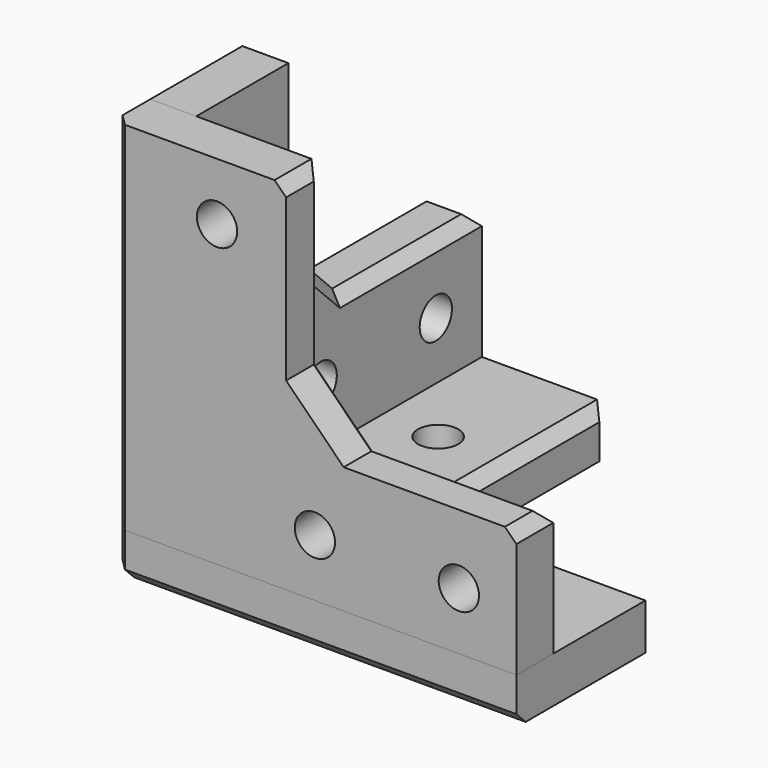
from build123d import *

# Parameters (mm, degrees)
F0_R      = 2.2225
F1_DEPTH  = 5.08
F2_R      = 2.2225
F3_DEPTH  = 5.08
F4_R      = 2.2225
F5_DEPTH  = 5.08
F6_SIZE   = 1.27
F6_2_SIZE = 1.27
F6_3_SIZE = 1.27


with BuildPart() as f1:
    # F0 (on Top) → F1 (new body)
    with BuildSketch(Plane.XY):
        Polygon((0, 44.45), (0, 0), (44.45, 0), (44.45, 19.05), (25.4, 19.05), (19.05, 25.4), (19.05, 44.45), align=None)
        with Locations((11.43, 11.43)):
            Circle(F0_R, mode=Mode.SUBTRACT)
        with Locations((30.48, 11.43)):
            Circle(F0_R, mode=Mode.SUBTRACT)
        with Locations((11.43, 30.48)):
            Circle(F0_R, mode=Mode.SUBTRACT)
    extrude(amount=F1_DEPTH)

    # F6
    f6_edges = [f1.edges().sort_by_distance(p)[0] for p in [
        (19.05, 34.925, 5.08),
        (19.05, 44.45, 2.54),
        (34.925, 19.05, 5.08),
        (22.225, 22.225, 5.08),
        (44.45, 19.05, 2.54),
        (22.225, 0, 0),
        (0, 0, 2.54),
        (0, 22.225, 0),
    ]]
    chamfer(f6_edges, length=F6_SIZE)


with BuildPart() as f3:
    # F2 (on face) → F3 (new body)
    with BuildSketch(Plane.XZ):
        Polygon((0, 44.45), (0, 5.08), (44.45, 5.08), (44.45, 19.05), (25.4, 19.05), (19.05, 25.4), (19.05, 44.45), align=None)
        with Locations((22.225, 11.43)):
            Circle(F2_R, mode=Mode.SUBTRACT)
        with Locations((38.1, 11.43)):
            Circle(F2_R, mode=Mode.SUBTRACT)
        with Locations((11.43, 38.1)):
            Circle(F2_R, mode=Mode.SUBTRACT)
    extrude(amount=-F3_DEPTH)

    # F6#3
    f6_3_edges = [f3.edges().sort_by_distance(p)[0] for p in [
        (19.05, 5.08, 34.925),
        (22.225, 5.08, 22.225),
        (34.925, 5.08, 19.05),
        (44.45, 2.54, 19.05),
        (19.05, 2.54, 44.45),
        (0, 0, 24.765),
    ]]
    chamfer(f6_3_edges, length=F6_3_SIZE)


with BuildPart() as f5:
    # F4 (on face) → F5 (new body)
    with BuildSketch(Plane(origin=(0, 0, 0), x_dir=(0, -1, 0), z_dir=(-1, 0, 0))):
        Polygon((-44.45, 19.05), (-44.45, 5.08), (-5.08, 5.08), (-5.08, 44.45), (-19.05, 44.45), (-19.05, 25.4), (-25.4, 19.05), align=None)
        with Locations((-38.1, 11.43)):
            Circle(F4_R, mode=Mode.SUBTRACT)
        with Locations((-22.225, 11.43)):
            Circle(F4_R, mode=Mode.SUBTRACT)
        with Locations((-11.43, 27.94)):
            Circle(F4_R, mode=Mode.SUBTRACT)
    extrude(amount=-F5_DEPTH)

    # F6#2
    f6_2_edges = [f5.edges().sort_by_distance(p)[0] for p in [
        (2.54, 44.45, 19.05),
        (5.08, 34.925, 19.05),
        (5.08, 19.05, 34.925),
        (5.08, 22.225, 22.225),
        (2.54, 19.05, 44.45),
    ]]
    chamfer(f6_2_edges, length=F6_2_SIZE)


solid = Compound([f1.part, f3.part, f5.part])
